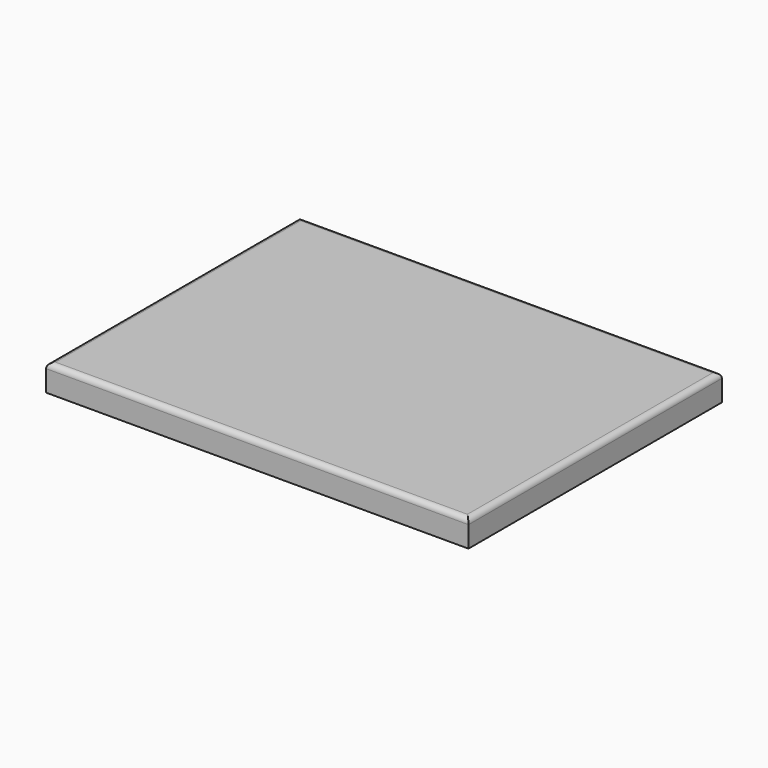
from build123d import *

# Parameters (mm, degrees)
F0_W     = 406.4
F0_H     = 304.8
F1_DEPTH = 25.4
F2_R     = 5.08
F3_R     = 25.4
F4_DEPTH = 19.05


with BuildPart() as f1:
    # F0 (on Top) → F1 (new body)
    with BuildSketch(Plane.XY):
        Rectangle(F0_W, F0_H)
    extrude(amount=-F1_DEPTH)

    # F2
    f2_edges = [f1.edges().sort_by_distance(p)[0] for p in [
        (0, -152.4, 0),
        (203.2, 0, 0),
        (0, 152.4, 0),
        (-203.2, 0, 0),
    ]]
    fillet(f2_edges, radius=F2_R)

    # F3 (on face) → F4 (cut)
    with BuildSketch(Plane(origin=(0, 0, -25.4), x_dir=(1, 0, 0), z_dir=(0, 0, -1))):
        with Locations((-140.338207, 89.538207)):
            Circle(F3_R)
        with Locations((140.338207, 89.538207)):
            Circle(F3_R)
        with Locations((-140.338207, -89.538207)):
            Circle(F3_R)
        with Locations((140.338207, -89.538207)):
            Circle(F3_R)
    extrude(amount=-F4_DEPTH, mode=Mode.SUBTRACT)


solid = f1.part
